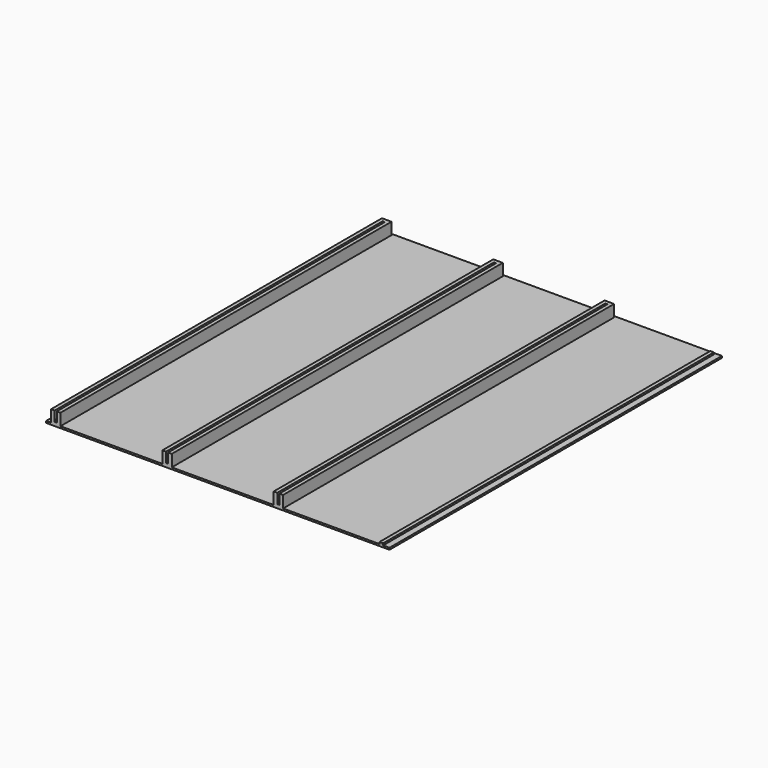
from build123d import *

# Parameters (mm, degrees)
F0_W     = 5.2
F0_H     = 226.71
F1_DEPTH = 2
F3_DEPTH = 4.5
F4_W     = 1.2
F4_H     = 2.1
F5_DEPTH = 25
F6_W     = 185.5
F6_H     = 227.71
F6_W_2   = 2.7
F7_DEPTH = 1
F8_W     = 2
F8_H     = 226.618603
F9_DEPTH = 1
F10_SIZE = 1


with BuildPart() as f1:
    # F0 (on Top) → F1 (new body)
    with BuildSketch(Plane.XY):
        with Locations((2.6, 113.355)):
            Rectangle(F0_W, F0_H)
        with Locations((63.6, 113.355)):
            Rectangle(F0_W, F0_H)
        with Locations((124.6, 113.355)):
            Rectangle(F0_W, F0_H)
    extrude(amount=F1_DEPTH)

    # F2 (on face) → F3 (join)
    with BuildSketch(Plane.XY.offset(2)):
        Polygon((0, 226.71), (0, 0), (2, 0), (2, 224.71), (3.2, 224.71), (3.2, 0), (5.2, 0), (5.2, 226.71), align=None)
        Polygon((61, 226.71), (61, 0), (63, 0), (63, 224.71), (64.2, 224.71), (64.2, 0), (66.2, 0), (66.2, 226.71), align=None)
        Polygon((122, 226.71), (122, 0), (124, 0), (124, 224.71), (125.2, 224.71), (125.2, 0), (127.2, 0), (127.2, 226.71), align=None)
    extrude(amount=F3_DEPTH)

    # F4 (on face) → F5 (cut)
    with BuildSketch(Plane.XY.offset(2)):
        with Locations((2.6, 2.95)):
            Rectangle(F4_W, F4_H)
        with Locations((63.6, 2.95)):
            Rectangle(F4_W, F4_H)
        with Locations((124.6, 2.95)):
            Rectangle(F4_W, F4_H)
    extrude(amount=-F5_DEPTH, mode=Mode.SUBTRACT)

    # F6 (on Top) → F7 (join)
    with BuildSketch(Plane.XY):
        with Locations((92.75, 113.855)):
            Rectangle(F6_W, F6_H)
        with Locations((-1.35, 113.855)):
            Rectangle(F6_W_2, F6_H)
    extrude(amount=-F7_DEPTH)

    # F8 (on face) → F9 (join)
    with BuildSketch(Plane.XY):
        with Locations((181, 113.309301)):
            Rectangle(F8_W, F8_H)
    extrude(amount=F9_DEPTH)

    # F10
    f10_edges = [f1.edges().sort_by_distance(p)[0] for p in [
        (2.6, 0, 2),
        (63.6, 0, 2),
        (124.6, 0, 2),
    ]]
    chamfer(f10_edges, length=F10_SIZE)


solid = f1.part
